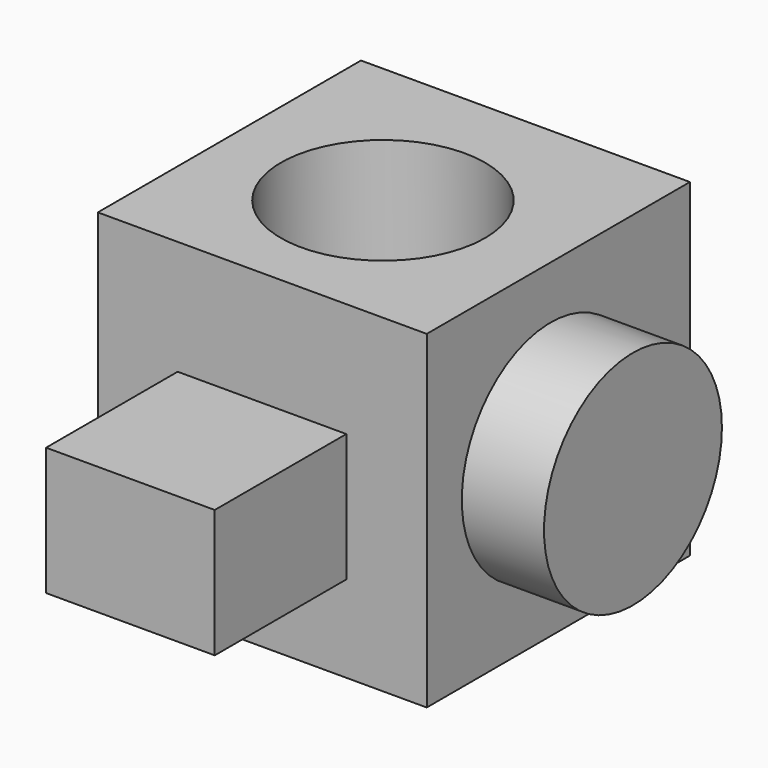
from build123d import *

# Parameters (mm, degrees)
F0_W     = 50.8
F0_H     = 50.8
F1_DEPTH = 50.8
F2_W     = 26.049768
F2_H     = 19.769912
F3_DEPTH = 25.4
F4_R     = 15.769687
F5_DEPTH = 50.8
F6_R     = 17.170546
F7_DEPTH = 12.7


with BuildPart() as f1:
    # F0 (on Front) → F1 (new body)
    with BuildSketch(Plane.XZ):
        with Locations((-27.746176, 25.4)):
            Rectangle(F0_W, F0_H)
    extrude(amount=F1_DEPTH)

    # F2 (on face) → F3 (join)
    with BuildSketch(Plane.XZ.offset(50.8)):
        with Locations((-27.794172, 23.258721)):
            Rectangle(F2_W, F2_H)
    extrude(amount=F3_DEPTH)

    # F4 (on face) → F5 (cut)
    with BuildSketch(Plane.XY.offset(50.8)):
        with Locations((-28.259346, -26.863825)):
            Circle(F4_R)
    extrude(amount=-F5_DEPTH, mode=Mode.SUBTRACT)

    # F6 (on face) → F7 (join)
    with BuildSketch(Plane.YZ.offset(-2.346176)):
        with Locations((-26.863823, 25.468299)):
            Circle(F6_R)
    extrude(amount=F7_DEPTH)


solid = f1.part
